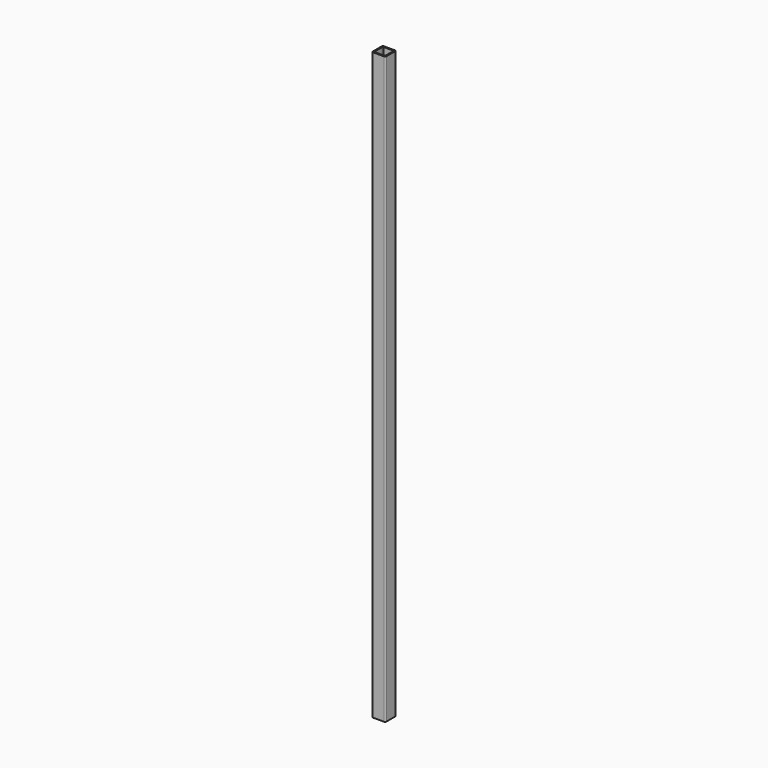
from build123d import *

# Parameters (mm, degrees)
F0_W     = 16
F0_H     = 16
F1_DEPTH = 700
F2_T     = -1.5
F3_R     = 1.5
F4_R     = 1


with BuildPart() as f1:
    # F0 (on Top) → F1 (new body)
    with BuildSketch(Plane.XY):
        Rectangle(F0_W, F0_H)
    extrude(amount=F1_DEPTH)

    # F2
    f2_openings = [f1.faces().sort_by_distance(p)[0] for p in [
        (0, 0, 700),
        (0, 0, 0),
    ]]
    offset(amount=F2_T, openings=f2_openings)

    # F3
    f3_edges = [f1.edges().sort_by_distance(p)[0] for p in [
        (-8, 8, 350),
        (8, 8, 350),
        (8, -8, 350),
        (-8, -8, 350),
    ]]
    fillet(f3_edges, radius=F3_R)

    # F4
    f4_edges = [f1.edges().sort_by_distance(p)[0] for p in [
        (6.5, 6.5, 350),
        (-6.5, 6.5, 350),
        (-6.5, -6.5, 350),
        (6.5, -6.5, 350),
    ]]
    fillet(f4_edges, radius=F4_R)


solid = f1.part
